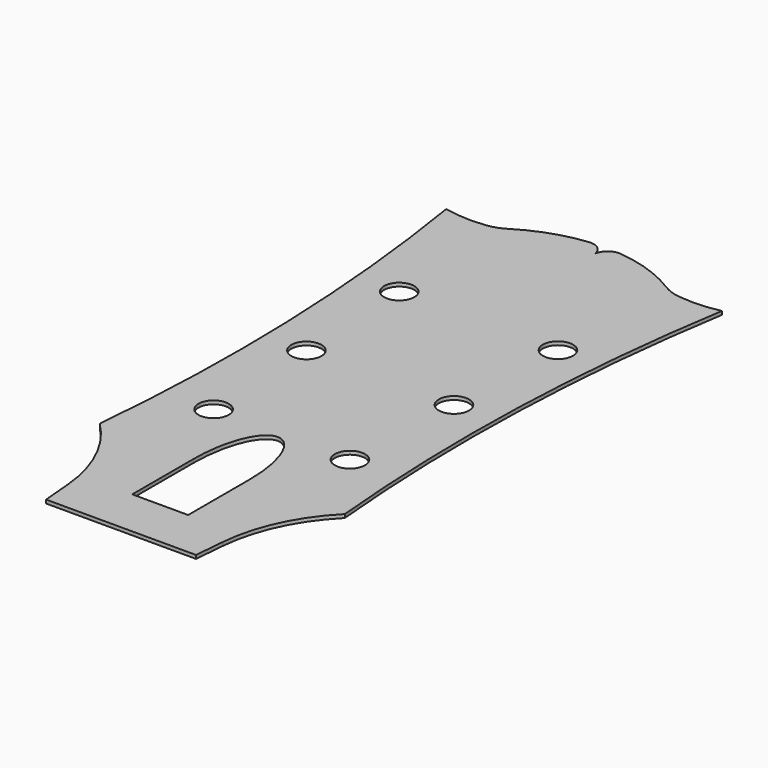
from build123d import *

# Parameters (mm, degrees)
F1_DEPTH = 1
F3_D     = 8.64
F4_DEPTH = 25


with BuildPart() as f1:
    # F0 (on Top) → F1 (new body)
    with BuildSketch(Plane.XY):
        with BuildLine():
            Line((-21.45, 0), (0, 0))
            Line((0, 0), (21.45, 0))
            Line((21.45, 0), (22.2075974907, 8.6593789428))
            ThreePointArc((22.2075974907, 8.6593789428), (26.2007214664, 23.5619205011), (35.05, 36.2))
            ThreePointArc((35.05, 36.2), (33.1464754087, 101.0395325209), (39.45, 165.6))
            ThreePointArc((39.45, 165.6), (33.5426879174, 164.8198684719), (27.5886514491, 165.0530872052))
            ThreePointArc((27.5886514491, 165.0530872052), (24.9545680687, 165.6778337109), (22.5167661948, 166.8550445988))
            ThreePointArc((22.5167661948, 166.8550445988), (13.834235102, 170.9953697151), (4.4430186473, 173.0771218005))
            ThreePointArc((4.4430186473, 173.0771218005), (1.3309419019, 172.0659808949), (0, 169.0766630372))
            ThreePointArc((0, 169.0766630372), (-1.3309419019, 172.0659808949), (-4.4430186473, 173.0771218005))
            ThreePointArc((-4.4430186473, 173.0771218005), (-13.834235102, 170.9953697151), (-22.5167661948, 166.8550445988))
            ThreePointArc((-22.5167661948, 166.8550445988), (-24.9545680687, 165.6778337109), (-27.5886514491, 165.0530872052))
            ThreePointArc((-27.5886514491, 165.0530872052), (-33.5426879174, 164.8198684719), (-39.45, 165.6))
            ThreePointArc((-39.45, 165.6), (-33.1464754087, 101.0395325209), (-35.05, 36.2))
            ThreePointArc((-35.05, 36.2), (-26.2007214664, 23.5619205011), (-22.2075974907, 8.6593789428))
            Line((-22.2075974907, 8.6593789428), (-21.45, 0))
        make_face()
    extrude(amount=F1_DEPTH)

    # F3 (through all)
    with Locations(Plane.XY.offset(1)):
        with Locations((-19.51, 57.48), (-21.1084226467, 92.68), (-22.7068452934, 127.88), (22.7068452934, 127.88), (21.1084226467, 92.68), (19.51, 57.48)):
            Hole(F3_D / 2)

    # F5 (on face) → F4 (cut)
    with BuildSketch(Plane.XY.offset(1)):
        with BuildLine():
            Line((-8, 14), (0, 14))
            Line((0, 14), (8, 14))
            Line((8, 14), (8, 36))
            add(Edge.make_bspline(
                [(8, 36), (8, 56), (0, 56), (-8, 56), (-8, 36)],
                knots=[4.7123889804, 4.7123889804, 4.7123889804, 6.2831853072, 6.2831853072, 7.853981634, 7.853981634, 7.853981634], degree=2, weights=[1, 0.7071067812, 1, 0.7071067812, 1]))
            Line((-8, 36), (-8, 14))
        make_face()
    extrude(amount=-F4_DEPTH, mode=Mode.SUBTRACT)


solid = f1.part
